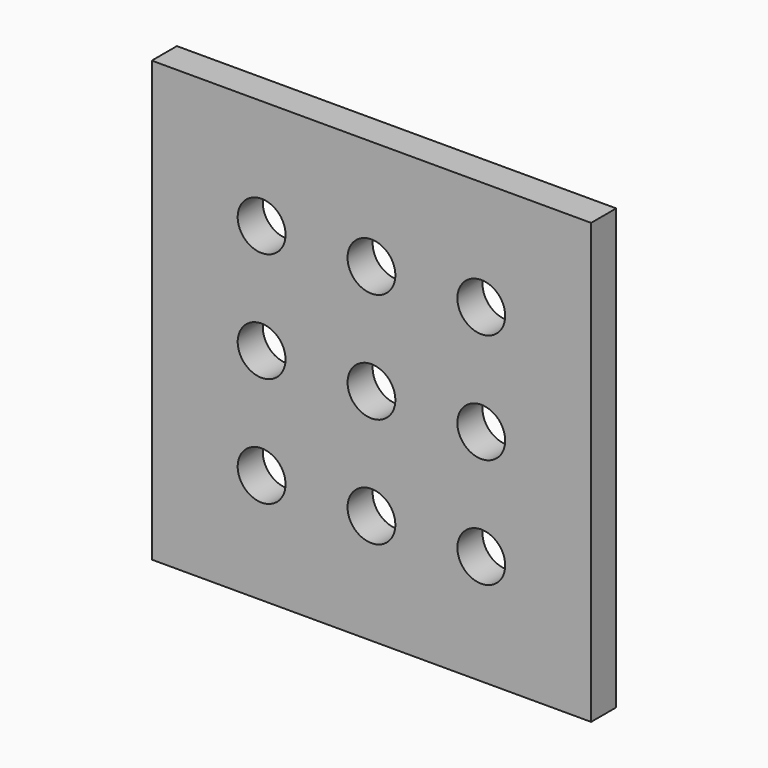
from build123d import *

# Parameters (mm, degrees)
F0_W     = 350
F0_H     = 350
F0_R     = 19.05
F1_DEPTH = 25


with BuildPart() as f1:
    # F0 (on Front) → F1 (new body)
    with BuildSketch(Plane.XZ):
        Rectangle(F0_W, F0_H)
        with Locations((-87.5, -87.5)):
            Circle(F0_R, mode=Mode.SUBTRACT)
        with Locations((0, -87.5)):
            Circle(F0_R, mode=Mode.SUBTRACT)
        with Locations((87.5, -87.5)):
            Circle(F0_R, mode=Mode.SUBTRACT)
        with Locations((-87.5, 0)):
            Circle(F0_R, mode=Mode.SUBTRACT)
        with Locations((-87.5, 87.5)):
            Circle(F0_R, mode=Mode.SUBTRACT)
        Circle(F0_R, mode=Mode.SUBTRACT)
        with Locations((87.5, 0)):
            Circle(F0_R, mode=Mode.SUBTRACT)
        with Locations((0, 87.5)):
            Circle(F0_R, mode=Mode.SUBTRACT)
        with Locations((87.5, 87.5)):
            Circle(F0_R, mode=Mode.SUBTRACT)
    extrude(amount=F1_DEPTH)


solid = f1.part
